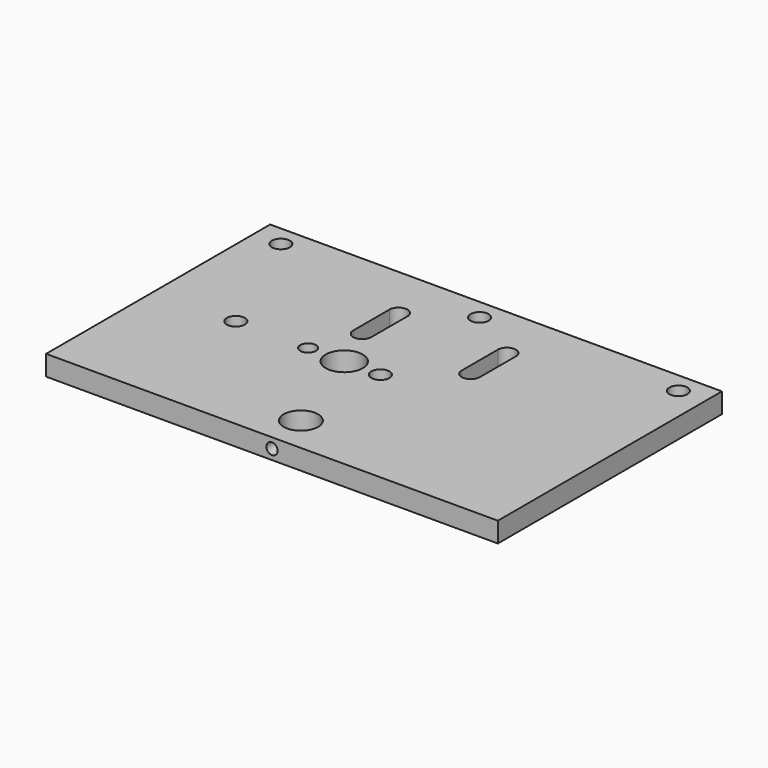
from build123d import *

# Parameters (mm, degrees)
SKETCH_W        = 100
SKETCH_H        = 62
PAD_DEPTH       = 4.45
SKETCH001_R     = 2
POCKET_DEPTH    = 4.45
SKETCH004_R     = 4.1
POCKET002_DEPTH = 5
SKETCH009_R     = 3.8
POCKET005_DEPTH = 5
SKETCH010_R     = 1.25
POCKET006_DEPTH = 5
SKETCH011_R     = 1.75
SKETCH011_R_2   = 2
POCKET007_DEPTH = 5
POCKET008_DEPTH = 5
SKETCH013_R     = 2
POCKET009_DEPTH = 5


with BuildPart() as part:
    # Sketch → Pad (new body)
    with BuildSketch(Plane.XY):
        with Locations((0, 1)):
            Rectangle(SKETCH_W, SKETCH_H)
    extrude(amount=PAD_DEPTH)

    # Sketch001 → Pocket (cut)
    with BuildSketch(Plane.XY.offset(4.45)):
        Circle(SKETCH001_R)
    extrude(amount=-POCKET_DEPTH, mode=Mode.SUBTRACT)

    # Sketch004 → Pocket002 (cut)
    with BuildSketch(Plane.XY.offset(4.45)):
        with Locations((-8, 0)):
            Circle(SKETCH004_R)
    extrude(amount=-POCKET002_DEPTH, mode=Mode.SUBTRACT)

    # Sketch009 → Pocket005 (cut)
    with BuildSketch(Plane.XY.offset(4.45)):
        with Locations((0, -22)):
            Circle(SKETCH009_R)
    extrude(amount=-POCKET005_DEPTH, mode=Mode.SUBTRACT)

    # Sketch010 → Pocket006 (cut)
    with BuildSketch(Plane.XZ.offset(30)):
        with Locations((0, 2.225)):
            Circle(SKETCH010_R)
    extrude(amount=-POCKET006_DEPTH, mode=Mode.SUBTRACT)

    # Sketch011 → Pocket007 (cut)
    with BuildSketch(Plane.XY.offset(4.45)):
        with Locations((-16, 0)):
            Circle(SKETCH011_R)
        with Locations((-32, 0)):
            Circle(SKETCH011_R_2)
    extrude(amount=-POCKET007_DEPTH, mode=Mode.SUBTRACT)

    # Sketch012 → Pocket008 (cut)
    with BuildSketch(Plane.XY.offset(4.45)):
        with BuildLine():
            ThreePointArc((14, 20), (12, 22), (10, 20))
            Line((10, 20), (10, 10))
            ThreePointArc((10, 10), (12, 8), (14, 10))
            Line((14, 20), (14, 10))
        make_face()
        with BuildLine():
            ThreePointArc((-10, 20), (-11.999997, 22.000006), (-14, 20.000006))
            Line((-14, 20.000006), (-14, 10.00001))
            ThreePointArc((-14, 10.00001), (-12.000005, 8.000011), (-10, 10))
            Line((-10, 20), (-10, 10))
        make_face()
    extrude(amount=-POCKET008_DEPTH, mode=Mode.SUBTRACT)

    # Sketch013 → Pocket009 (cut)
    with BuildSketch(Plane.XY.offset(4.45)):
        with Locations((44, 27.45)):
            Circle(SKETCH013_R)
        with Locations((-44, 27.45)):
            Circle(SKETCH013_R)
        with Locations((0, 27.45)):
            Circle(SKETCH013_R)
    extrude(amount=-POCKET009_DEPTH, mode=Mode.SUBTRACT)


solid = part.part
